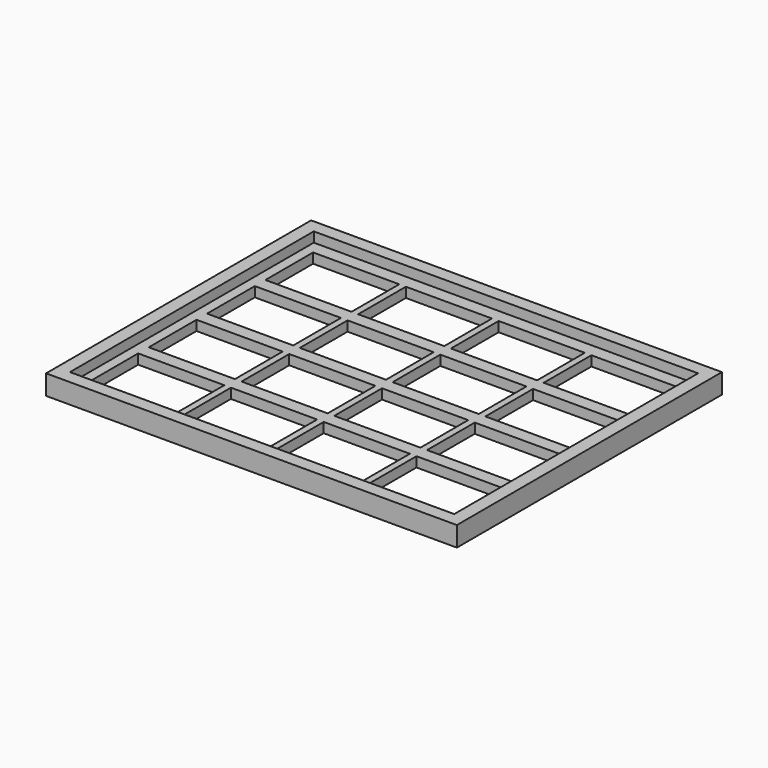
from build123d import *

# Parameters (mm, degrees)
F0_W     = 58
F0_H     = 46
F1_DEPTH = 1.5
F2_W     = 11
F2_H     = 7
F3_DEPTH = 1.501
F4_W     = 13
F4_H     = 9
F4_W_2   = 11
F4_H_2   = 7
F5_DEPTH = 1.501
F0_W_2   = 62
F0_H_2   = 50
F6_DEPTH = 3


with BuildPart() as f1:
    # F0 (on Top) → F1 (new body)
    with BuildSketch(Plane.XY):
        Rectangle(F0_W, F0_H)
    extrude(amount=F1_DEPTH)

    # F2 (on face) → F3 (cut, through all)
    with BuildSketch(Plane.XY.offset(1.5)):
        with Locations((-21, 16.5)):
            Rectangle(F2_W, F2_H)
        with Locations((-7, 16.5)):
            Rectangle(F2_W, F2_H)
        with Locations((7, 16.5)):
            Rectangle(F2_W, F2_H)
        with Locations((21, 16.5)):
            Rectangle(F2_W, F2_H)
        with Locations((-20.923837, 5.500264)):
            Rectangle(F2_W, F2_H)
        with Locations((-6.923837, 5.500264)):
            Rectangle(F2_W, F2_H)
        with Locations((7.076163, 5.500264)):
            Rectangle(F2_W, F2_H)
        with Locations((21.076163, 5.500264)):
            Rectangle(F2_W, F2_H)
        with Locations((-20.847673, -5.499473)):
            Rectangle(F2_W, F2_H)
        with Locations((-6.847673, -5.499473)):
            Rectangle(F2_W, F2_H)
        with Locations((7.152327, -5.499473)):
            Rectangle(F2_W, F2_H)
        with Locations((21.152327, -5.499473)):
            Rectangle(F2_W, F2_H)
        with Locations((-20.77151, -16.499209)):
            Rectangle(F2_W, F2_H)
        with Locations((-6.77151, -16.499209)):
            Rectangle(F2_W, F2_H)
        with Locations((7.22849, -16.499209)):
            Rectangle(F2_W, F2_H)
        with Locations((21.22849, -16.499209)):
            Rectangle(F2_W, F2_H)
    extrude(amount=-F3_DEPTH, mode=Mode.SUBTRACT)

    # F4 (on face) → F5 (cut, through all)
    with BuildSketch(Plane.XY.offset(1.5)):
        with Locations((-21, 16.5)):
            Rectangle(F4_W, F4_H)
        with Locations((-21, 16.5)):
            Rectangle(F4_W_2, F4_H_2, mode=Mode.SUBTRACT)
        with Locations((-7, 16.5)):
            Rectangle(F4_W, F4_H)
        with Locations((-7, 16.5)):
            Rectangle(F4_W_2, F4_H_2, mode=Mode.SUBTRACT)
        with Locations((7, 16.5)):
            Rectangle(F4_W, F4_H)
        with Locations((7, 16.5)):
            Rectangle(F4_W_2, F4_H_2, mode=Mode.SUBTRACT)
        with Locations((21, 16.5)):
            Rectangle(F4_W, F4_H)
        with Locations((21, 16.5)):
            Rectangle(F4_W_2, F4_H_2, mode=Mode.SUBTRACT)
        with Locations((-21, 5.5)):
            Rectangle(F4_W, F4_H)
        with Locations((-20.923837, 5.500264)):
            Rectangle(F4_W_2, F4_H_2, mode=Mode.SUBTRACT)
        with Locations((7, 5.5)):
            Rectangle(F4_W, F4_H)
        with Locations((7.076163, 5.500264)):
            Rectangle(F4_W_2, F4_H_2, mode=Mode.SUBTRACT)
        with Locations((-7, 5.5)):
            Rectangle(F4_W, F4_H)
        with Locations((-6.923837, 5.500264)):
            Rectangle(F4_W_2, F4_H_2, mode=Mode.SUBTRACT)
        with Locations((21, 5.5)):
            Rectangle(F4_W, F4_H)
        with Locations((21.076163, 5.500264)):
            Rectangle(F4_W_2, F4_H_2, mode=Mode.SUBTRACT)
        with Locations((-21, -5.5)):
            Rectangle(F4_W, F4_H)
        with Locations((-20.847673, -5.499473)):
            Rectangle(F4_W_2, F4_H_2, mode=Mode.SUBTRACT)
        with Locations((-7, -5.5)):
            Rectangle(F4_W, F4_H)
        with Locations((-6.847673, -5.499473)):
            Rectangle(F4_W_2, F4_H_2, mode=Mode.SUBTRACT)
        with Locations((7, -5.5)):
            Rectangle(F4_W, F4_H)
        with Locations((7.152327, -5.499473)):
            Rectangle(F4_W_2, F4_H_2, mode=Mode.SUBTRACT)
        with Locations((21, -5.5)):
            Rectangle(F4_W, F4_H)
        with Locations((21.152327, -5.499473)):
            Rectangle(F4_W_2, F4_H_2, mode=Mode.SUBTRACT)
        with Locations((-21, -16.5)):
            Rectangle(F4_W, F4_H)
        with Locations((-20.77151, -16.499209)):
            Rectangle(F4_W_2, F4_H_2, mode=Mode.SUBTRACT)
        with Locations((-7, -16.5)):
            Rectangle(F4_W, F4_H)
        with Locations((-6.77151, -16.499209)):
            Rectangle(F4_W_2, F4_H_2, mode=Mode.SUBTRACT)
        with Locations((7, -16.5)):
            Rectangle(F4_W, F4_H)
        with Locations((7.22849, -16.499209)):
            Rectangle(F4_W_2, F4_H_2, mode=Mode.SUBTRACT)
        with Locations((21, -16.5)):
            Rectangle(F4_W, F4_H)
        with Locations((21.22849, -16.499209)):
            Rectangle(F4_W_2, F4_H_2, mode=Mode.SUBTRACT)
    extrude(amount=-F5_DEPTH, mode=Mode.SUBTRACT)

    # F0 (on Top) → F6 (join)
    with BuildSketch(Plane.XY):
        Rectangle(F0_W_2, F0_H_2)
        Rectangle(F0_W, F0_H, mode=Mode.SUBTRACT)
    extrude(amount=F6_DEPTH)


solid = f1.part
